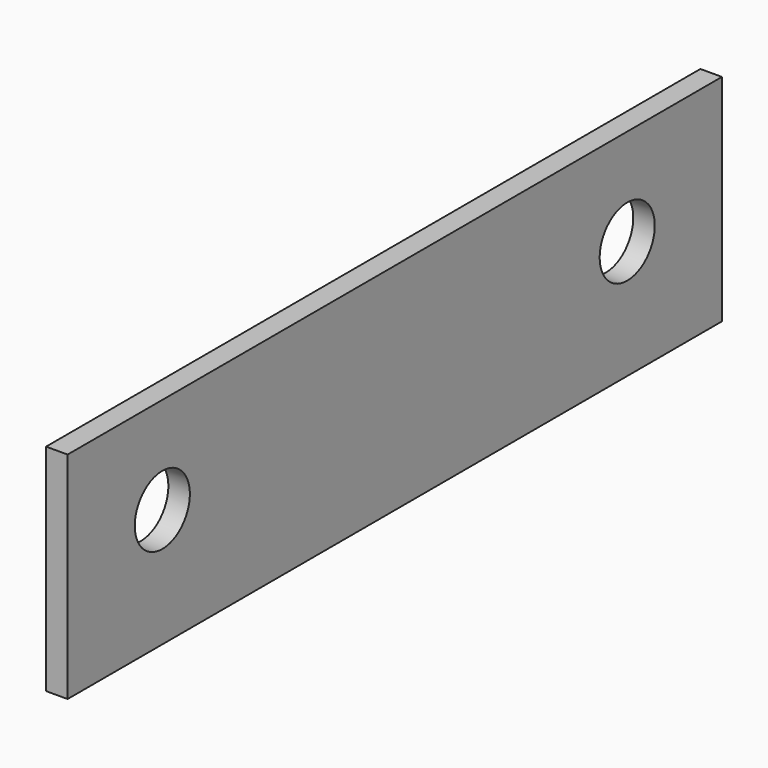
from build123d import *

# Parameters (mm, degrees)
SKETCH002_W = 38
SKETCH002_H = 10
SKETCH002_R = 1.6
PAD_DEPTH   = 1


with BuildPart() as part:
    # Sketch002 → Pad (new body)
    with BuildSketch(Plane(origin=(0, 0, 0), x_dir=(0, -1, 0), z_dir=(-1, 0, 0))):
        with Locations((-19, 5)):
            Rectangle(SKETCH002_W, SKETCH002_H)
        with Locations((-5.5, 5.5)):
            Circle(SKETCH002_R, mode=Mode.SUBTRACT)
        with Locations((-32.5, 5.5)):
            Circle(SKETCH002_R, mode=Mode.SUBTRACT)
    extrude(amount=PAD_DEPTH)


solid = part.part
